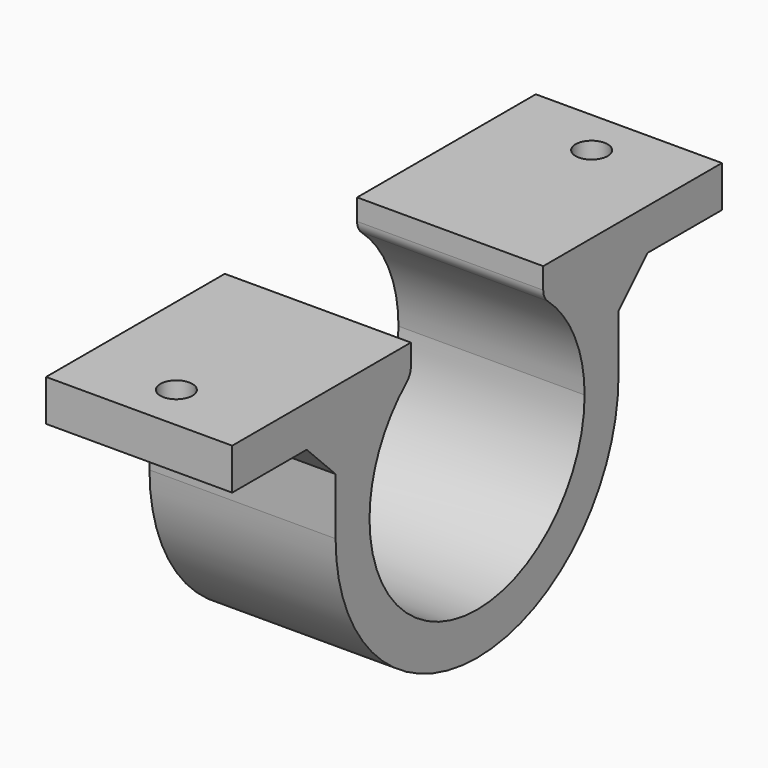
from build123d import *

# Parameters (mm, degrees)
F1_DEPTH = 36
F2_R     = 3.1
F3_DEPTH = 8.001
F4_SIZE  = 7
F5_R     = 3


with BuildPart() as f1:
    # F0 (on Right) → F1 (new body)
    with BuildSketch(Plane.YZ):
        with BuildLine():
            Line((-16, 26), (-26, 26))
            Line((-26, 26), (-59.2, 26))
            Line((-59.2, 26), (-59.2, 18))
            Line((-59.2, 18), (-34.2, 18))
            Line((-34.2, 18), (-34.2, 0))
            ThreePointArc((-34.2, 0), (0, -34.2), (34.2, 0))
            Line((34.2, 0), (34.2, 18))
            Line((34.2, 18), (59.2, 18))
            Line((59.2, 18), (59.2, 26))
            Line((59.2, 26), (26, 26))
            Line((26, 26), (16, 26))
            Line((16, 26), (16, 20.493902))
            ThreePointArc((16, 20.493902), (23.366643, 11.401754), (26, 0))
            ThreePointArc((26, 0), (0, -26), (-26, 0))
            ThreePointArc((-26, 0), (-23.366643, 11.401754), (-16, 20.493902))
            Line((-16, 20.493902), (-16, 26))
        make_face()
    extrude(amount=F1_DEPTH)

    # F2 (on face) → F3 (cut, through all)
    with BuildSketch(Plane(origin=(0, 0, 18), x_dir=(1, 0, 0), z_dir=(0, 0, -1))):
        with Locations((18, 50.2)):
            Circle(F2_R)
        with Locations((18, -50.2)):
            Circle(F2_R)
    extrude(amount=-F3_DEPTH, mode=Mode.SUBTRACT)

    # F4
    f4_edges = [f1.edges().sort_by_distance(p)[0] for p in [
        (18, -34.2, 18),
        (18, 34.2, 18),
    ]]
    chamfer(f4_edges, length=F4_SIZE)

    # F5
    f5_edges = [f1.edges().sort_by_distance(p)[0] for p in [
        (18, 16, 20.493902),
        (18, -16, 20.493902),
    ]]
    fillet(f5_edges, radius=F5_R)


solid = f1.part
